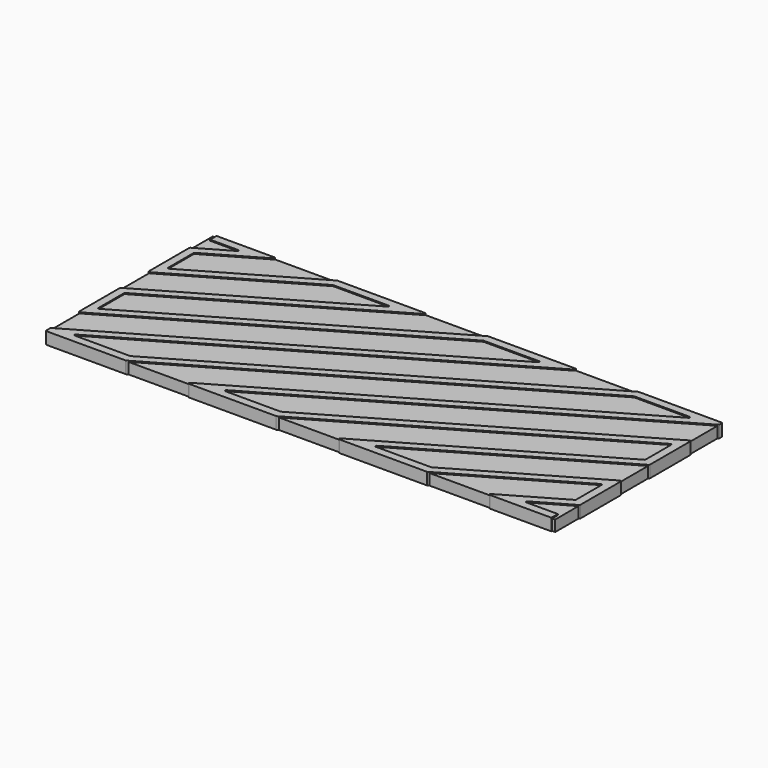
from build123d import *

# Parameters (mm, degrees)
F5_W     = 62.8235205077
F5_H     = 37.2700802982
F6_DEPTH = 25
F8_W     = 50.6
F8_H     = 20.6
F9_DEPTH = 1.1
F10_R    = 0.1


with BuildPart() as f4:
    # F4: sweep along a path in F1
    with BuildLine(Plane.XY) as f4_path:
        Line((0, 20), (4.6410161514, 20))
        Line((4.6410161514, 20), (0, 17.3205080757))
        Line((0, 17.3205080757), (0, 12.9903810568))
        Line((0, 12.9903810568), (12.1410161514, 20))
        Line((12.1410161514, 20), (19.6410161514, 20))
        Line((19.6410161514, 20), (0, 8.6602540378))
        Line((0, 8.6602540378), (0, 4.3301270189))
        Line((0, 4.3301270189), (27.1410161514, 20))
        Line((27.1410161514, 20), (34.6410161514, 20))
        Line((34.6410161514, 20), (0, 0))
        Line((0, 0), (7.5, 0))
        Line((7.5, 0), (42.1410161514, 20))
        Line((42.1410161514, 20), (49.6410161514, 20))
        Line((49.6410161514, 20), (15, 0))
        Line((15, 0), (22.5, 0))
        Line((22.5, 0), (50, 15.8771324027))
        Line((50, 15.8771324027), (50, 11.5470053838))
        Line((50, 11.5470053838), (30, 0))
        Line((30, 0), (37.5, 0))
        Line((37.5, 0), (50, 7.2168783649))
        Line((50, 7.2168783649), (50, 2.8867513459))
        Line((50, 2.8867513459), (45, 0))
        Line((45, 0), (50, 0))
    # F3 (on line) → F4 (sweep)
    with BuildSketch(Plane.YZ):
        Polygon((19.6, 0), (20, 0), (20.4, 0), (20.4, 1.2), (20, 1.2), (19.6, 1.2), align=None)
    sweep(path=f4_path.line, transition=Transition.RIGHT)


with BuildPart() as f6:
    # F5 (on Top) → F6 (new body)
    with BuildSketch(Plane.XY):
        with Locations((25.02031927, 9.5404535532)):
            Rectangle(F5_W, F5_H)
        Polygon((-0.4, 3.6373066959), (-0.4, 8.8911941455), (-0.4, 20.4), (0, 20.4), (6.1338364744, 20.4), (50.4, 20.4), (50.4, 16.5699527257), (50.4, 11.3160652761), (50.4, -0.4), (37.607179677, -0.4), (28.507179677, -0.4), (-0.4, -0.4), align=None, mode=Mode.SUBTRACT)
    extrude(amount=F6_DEPTH)


with BuildPart() as f4_1:
    add(f4.part)

    # F7: cut F6
    add(f6.part, mode=Mode.SUBTRACT)

    # F10
    f10_edges = [f4_1.edges().sort_by_distance(p)[0] for p in [
        (-0.4, 17.551448, 0.6),
        (3.148196, 19.6, 0.6),
        (6.133836, 20.4, 0.6),
        (0.4, 17.089568, 0.6),
        (0.4, 13.683201, 0.6),
        (-0.4, 12.297561, 0.6),
        (12.248196, 19.6, 0.6),
        (12.033836, 20.4, 0.6),
        (18.148196, 19.6, 0.6),
        (21.133836, 20.4, 0.6),
        (27.033836, 20.4, 0.6),
        (-0.4, 8.891194, 0.6),
        (0.4, 8.429314, 0.6),
        (0.4, 5.022947, 0.6),
        (-0.4, 3.637307, 0.6),
        (27.248196, 19.6, 0.6),
        (33.148196, 19.6, 0.6),
        (36.133836, 20.4, 0.6),
        (42.033836, 20.4, 0.6),
        (-0.4, 0.23094, 0.6),
        (1.49282, 0.4, 0.6),
        (-0.4, -0.4, 0.6),
        (7.39282, 0.4, 0.6),
        (7.60718, -0.4, 0.6),
        (42.248196, 19.6, 0.6),
        (48.148196, 19.6, 0.6),
        (50.4, 20.4, 0.6),
        (50.4, 19.976319, 0.6),
        (50.4, 16.569953, 0.6),
        (49.6, 15.184312, 0.6),
        (49.6, 11.777945, 0.6),
        (50.4, 11.316065, 0.6),
        (28.50718, -0.4, 0.6),
        (31.49282, 0.4, 0.6),
        (22.60718, -0.4, 0.6),
        (13.50718, -0.4, 0.6),
        (16.49282, 0.4, 0.6),
        (37.39282, 0.4, 0.6),
        (22.39282, 0.4, 0.6),
        (50.4, 7.909699, 0.6),
        (49.6, 6.524058, 0.6),
        (37.60718, -0.4, 0.6),
        (43.50718, -0.4, 0.6),
        (50.4, 2.655811, 0.6),
        (46.49282, 0.4, 0.6),
        (49.6, 3.117691, 0.6),
    ]]
    fillet(f10_edges, radius=F10_R)


with BuildPart() as f9:
    # F8 (on Top) → F9 (new body)
    with BuildSketch(Plane.XY):
        with Locations((25, 10)):
            Rectangle(F8_W, F8_H)
    extrude(amount=F9_DEPTH)


solid = Compound([f4_1.part, f9.part])
